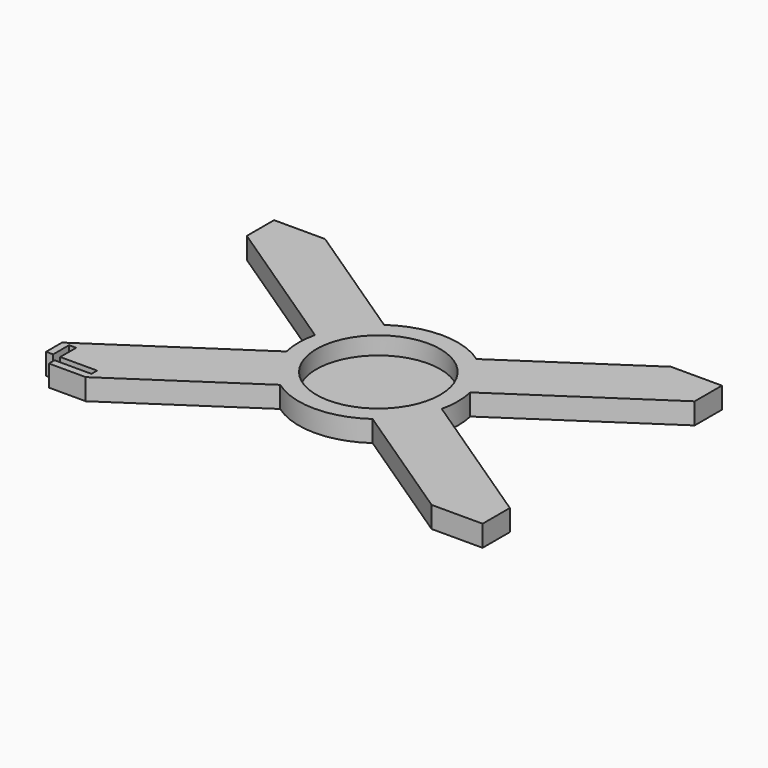
from build123d import *

# Parameters (mm, degrees)
F0_R     = 17.5
F1_DEPTH = 6
F2_DEPTH = 1


with BuildPart() as f1:
    # F0 (on Top) → F1 (new body)
    with BuildSketch(Plane.XY):
        with BuildLine():
            Line((-59.25, -40.25), (-59.25, -42.25))
            Line((-59.25, -42.25), (-48.847482, -42.25))
            Line((-48.847482, -42.25), (-13.043494, -18.333501))
            ThreePointArc((-13.043494, -18.333501), (0, -22.5), (13.043494, -18.333501))
            Line((13.043494, -18.333501), (48.847482, -42.25))
            Line((48.847482, -42.25), (63.25, -42.25))
            Line((63.25, -42.25), (63.25, -32.629346))
            Line((63.25, -32.629346), (21.930829, -5.028793))
            ThreePointArc((21.930829, -5.028793), (22.5, 0), (21.930829, 5.028793))
            Line((21.930829, 5.028793), (63.25, 32.629346))
            Line((63.25, 32.629346), (63.25, 42.25))
            Line((63.25, 42.25), (48.847482, 42.25))
            Line((48.847482, 42.25), (13.043494, 18.333501))
            ThreePointArc((13.043494, 18.333501), (0, 22.5), (-13.043494, 18.333501))
            Line((-13.043494, 18.333501), (-48.847482, 42.25))
            Line((-48.847482, 42.25), (-63.25, 42.25))
            Line((-63.25, 42.25), (-63.25, 32.629346))
            Line((-63.25, 32.629346), (-21.930829, 5.028793))
            ThreePointArc((-21.930829, 5.028793), (-22.5, 0), (-21.930829, -5.028793))
            Line((-21.930829, -5.028793), (-63.25, -32.629346))
            Line((-63.25, -32.629346), (-63.25, -38.25))
            Line((-63.25, -38.25), (-61.25, -38.25))
            Line((-61.25, -38.25), (-61.25, -32.629346))
            Line((-61.25, -32.629346), (-59.25, -32.629346))
            Line((-59.25, -32.629346), (-59.25, -38.25))
            Line((-59.25, -38.25), (-48.847482, -38.25))
            Line((-48.847482, -38.25), (-48.847482, -40.25))
            Line((-48.847482, -40.25), (-59.25, -40.25))
        make_face()
        Circle(F0_R, mode=Mode.SUBTRACT)
    extrude(amount=F1_DEPTH)

    # F0 (on Top) → F2 (join)
    with BuildSketch(Plane.XY):
        Circle(F0_R)
    extrude(amount=F2_DEPTH)


solid = f1.part
